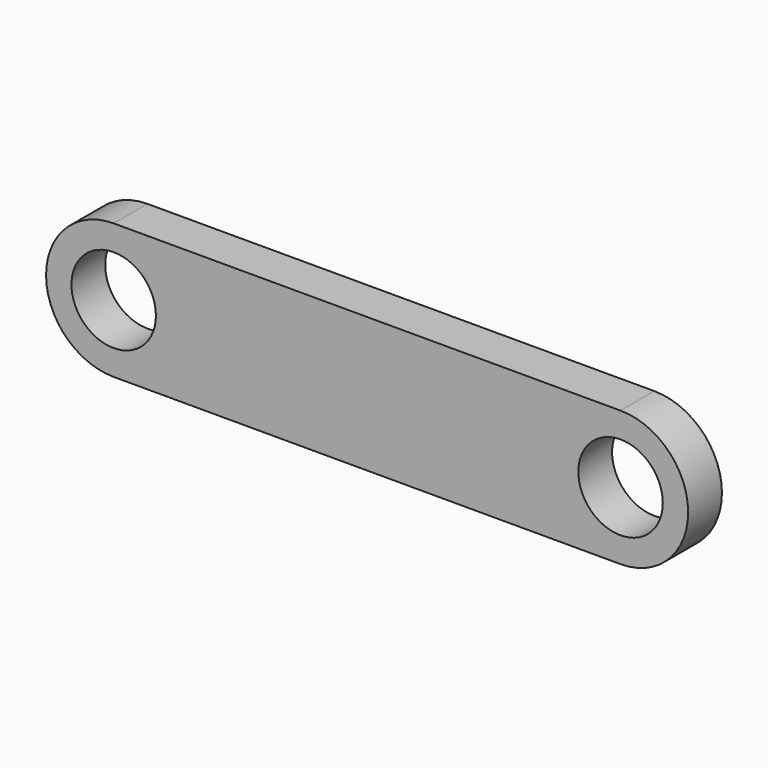
from build123d import *

# Parameters (mm, degrees)
F1_DEPTH = 127
F2_R     = 127
F3_DEPTH = 1226.82


with BuildPart() as f1:
    # F0 (on Front) → F1 (new body)
    with BuildSketch(Plane.XZ):
        with BuildLine():
            Line((762, 203.2), (-762, 203.2))
            ThreePointArc((-762, 203.2), (-965.2, 0), (-762, -203.2))
            Line((-762, -203.2), (762, -203.2))
            ThreePointArc((762, -203.2), (965.2, 0), (762, 203.2))
        make_face()
    extrude(amount=F1_DEPTH)

    # F2 (on face) → F3 (cut)
    with BuildSketch(Plane.XZ.offset(127)):
        with Locations((-762, 0)):
            Circle(F2_R)
        with Locations((762, 0)):
            Circle(F2_R)
    extrude(amount=-F3_DEPTH, mode=Mode.SUBTRACT)


solid = f1.part
